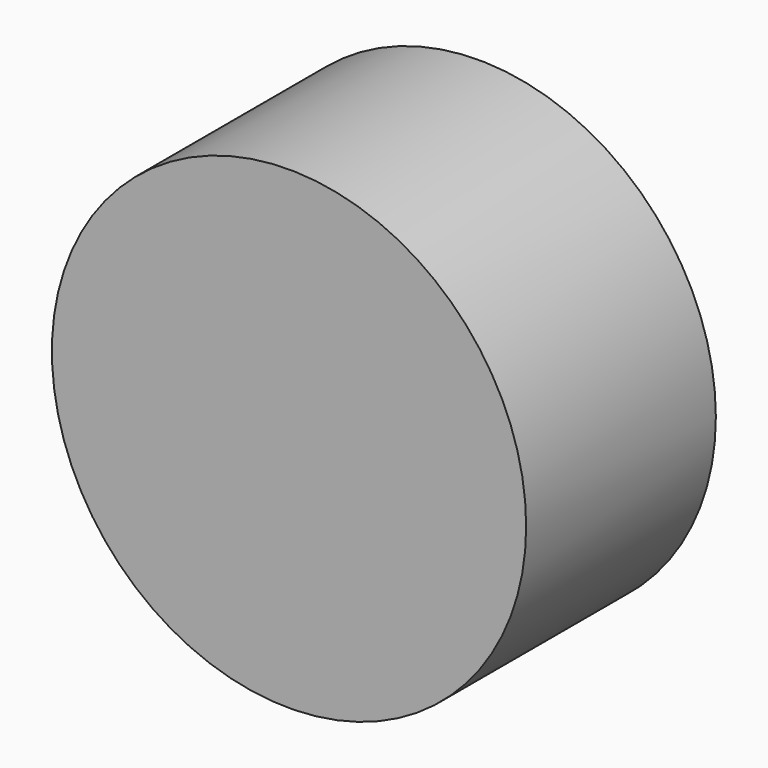
from build123d import *

# Parameters (mm, degrees)
F0_R     = 25.4
F1_DEPTH = 25.4
F2_T     = -2.54
F3_R     = 10.031251
F4_DEPTH = 25.401


with BuildPart() as f1:
    # F0 (on Front) → F1 (new body)
    with BuildSketch(Plane.XZ):
        Circle(F0_R)
    extrude(amount=F1_DEPTH)

    # F2
    f2_openings = [f1.faces().sort_by_distance(p)[0] for p in [
        (0, 0, 0),
    ]]
    offset(amount=F2_T, openings=f2_openings)

    # F3 (on Right) → F4 (cut, through all)
    with BuildSketch(Plane.YZ):
        with Locations((-12.55889, 0)):
            Circle(F3_R)
    extrude(amount=-F4_DEPTH, mode=Mode.SUBTRACT)


solid = f1.part
